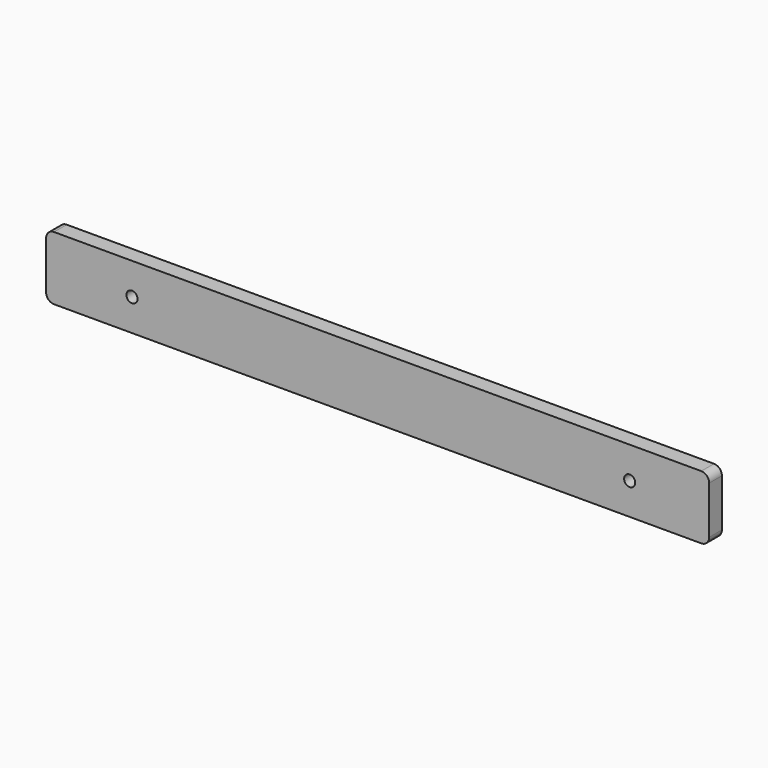
from build123d import *

# Parameters (mm, degrees)
F0_W     = 10
F0_H     = 20
F1_DEPTH = 10


with BuildPart() as f1:
    # F0 (on Front) → F1 (new body)
    with BuildSketch(Plane.XZ):
        with BuildLine():
            Line((-80.5, 20), (-203.5, 20))
            ThreePointArc((-203.5, 20), (-207.035534, 18.535534), (-208.5, 15))
            Line((-208.5, 15), (-208.5, 0))
            Line((-208.5, 0), (-158, 0))
            ThreePointArc((-158, 0), (-154.5, 3.5), (-151, 0))
            Line((-151, 0), (-80.5, 0))
            Line((-80.5, 0), (-80.5, 20))
        make_face()
        with Locations((-75.5, 10)):
            Rectangle(F0_W, F0_H)
        with BuildLine():
            Line((198.5, 20), (-70.5, 20))
            Line((-70.5, 20), (-70.5, 0))
            Line((-70.5, 0), (155, 0))
            ThreePointArc((155, 0), (158.5, 3.5), (162, 0))
            Line((162, 0), (198.5, 0))
            Line((198.5, 0), (198.5, 20))
        make_face()
        with BuildLine():
            Line((-80.5, -20), (-80.5, 0))
            Line((-80.5, 0), (-151, 0))
            ThreePointArc((-151, 0), (-154.5, -3.5), (-158, 0))
            Line((-158, 0), (-208.5, 0))
            Line((-208.5, 0), (-208.5, -15))
            ThreePointArc((-208.5, -15), (-207.035534, -18.535534), (-203.5, -20))
            Line((-203.5, -20), (-80.5, -20))
        make_face()
        with Locations((-75.5, -10)):
            Rectangle(F0_W, F0_H)
        with BuildLine():
            Line((203.5, 20), (198.5, 20))
            Line((198.5, 20), (198.5, 0))
            Line((198.5, 0), (208.5, 0))
            Line((208.5, 0), (208.5, 15))
            ThreePointArc((208.5, 15), (207.035534, 18.535534), (203.5, 20))
        make_face()
        with BuildLine():
            Line((155, 0), (-70.5, 0))
            Line((-70.5, 0), (-70.5, -20))
            Line((-70.5, -20), (198.5, -20))
            Line((198.5, -20), (198.5, 0))
            Line((198.5, 0), (162, 0))
            ThreePointArc((162, 0), (158.5, -3.5), (155, 0))
        make_face()
        with BuildLine():
            Line((208.5, 0), (198.5, 0))
            Line((198.5, 0), (198.5, -20))
            Line((198.5, -20), (203.5, -20))
            ThreePointArc((203.5, -20), (207.035534, -18.535534), (208.5, -15))
            Line((208.5, -15), (208.5, 0))
        make_face()
    extrude(amount=F1_DEPTH)


solid = f1.part
